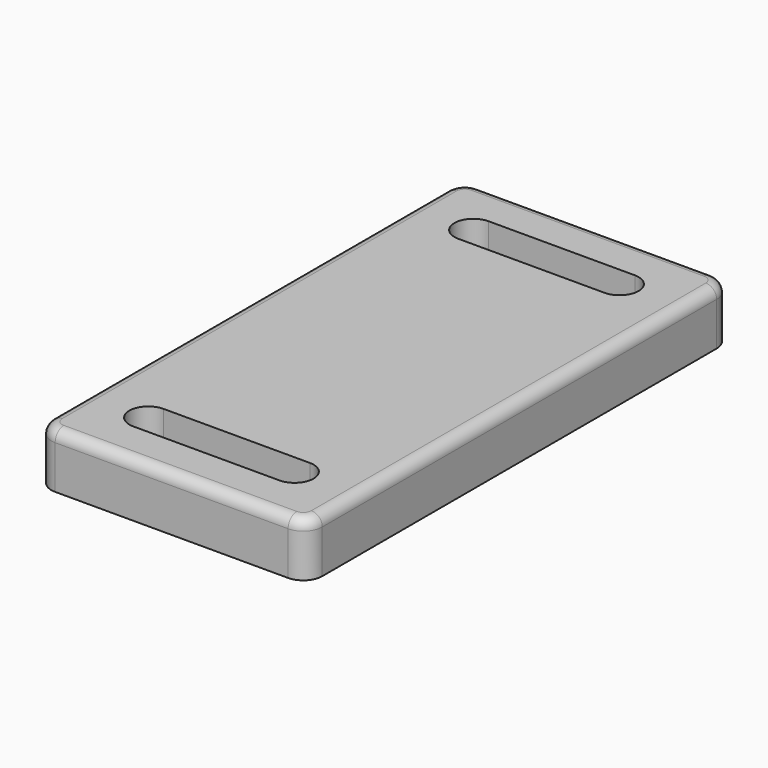
from build123d import *

# Parameters (mm, degrees)
PAD_DEPTH = 10
FILLET_R  = 2


with BuildPart() as part:
    # Sketch → Pad (new body)
    with BuildSketch(Plane.XY):
        with BuildLine():
            Line((-21.5, 49), (21.5, 49))
            ThreePointArc((25, 45.5), (23.974874, 47.974874), (21.5, 49))
            Line((25, 45.5), (25, -45.5))
            ThreePointArc((21.5, -49), (23.974874, -47.974874), (25, -45.5))
            Line((21.5, -49), (-21.5, -49))
            ThreePointArc((-25, -45.5), (-23.974874, -47.974874), (-21.5, -49))
            Line((-25, -45.5), (-25, 45.5))
            ThreePointArc((-21.5, 49), (-23.974874, 47.974874), (-25, 45.5))
        make_face()
        with BuildLine():
            ThreePointArc((-13.5, 41), (-17, 37.5), (-13.5, 34))
            Line((-13.5, 34), (13.5, 34))
            ThreePointArc((13.5, 34), (17, 37.5), (13.5, 41))
            Line((13.5, 41), (-13.5, 41))
        make_face(mode=Mode.SUBTRACT)
        with BuildLine():
            ThreePointArc((-13.5, -34), (-17, -37.5), (-13.5, -41))
            Line((-13.5, -41), (13.5, -41))
            ThreePointArc((13.5, -41), (17, -37.5), (13.5, -34))
            Line((13.5, -34), (-13.5, -34))
        make_face(mode=Mode.SUBTRACT)
    extrude(amount=PAD_DEPTH)

    # Fillet
    fillet_edges = [part.edges().sort_by_distance(p)[0] for p in [
        (-25, 0, 10),
    ]]
    fillet(fillet_edges, radius=FILLET_R)


solid = part.part
